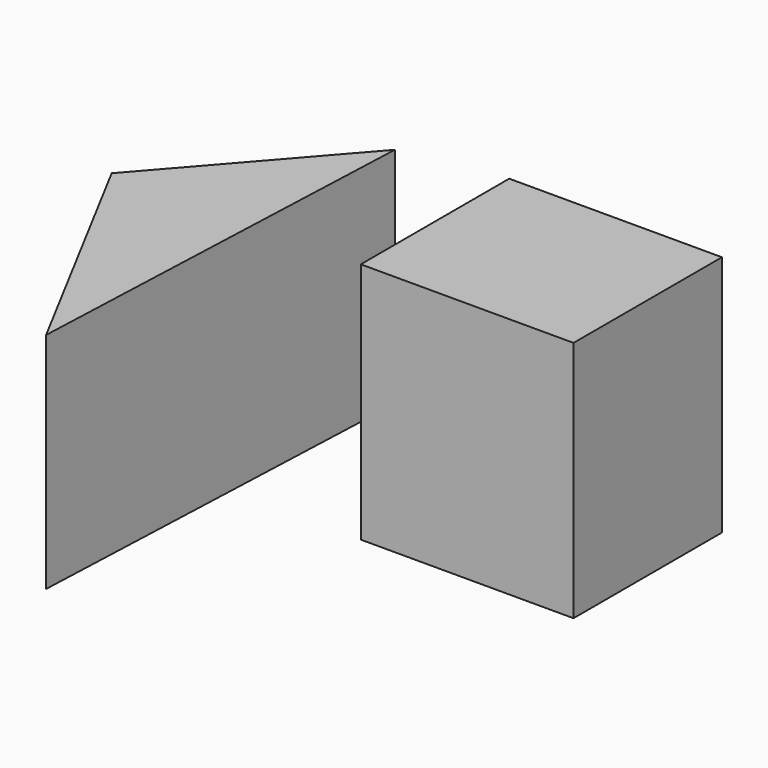
from build123d import *

# Parameters (mm, degrees)
F0_W     = 45.1518
F0_H     = 39.379802
F1_DEPTH = 51.45734
F3_DEPTH = 47.46424


with BuildPart() as f1:
    # F0 (on Top) → F1 (new body)
    with BuildSketch(Plane.XY):
        with Locations((22.5759, 19.689901)):
            Rectangle(F0_W, F0_H)
    extrude(amount=F1_DEPTH)


with BuildPart() as f3:
    # F2 (on Top) → F3 (new body)
    with BuildSketch(Plane.XY):
        Polygon((-29.679898, -46.412464), (-26.071651, 41.628778), (-57.463408, 5.726715), align=None)
    extrude(amount=F3_DEPTH)


solid = Compound([f1.part, f3.part])
